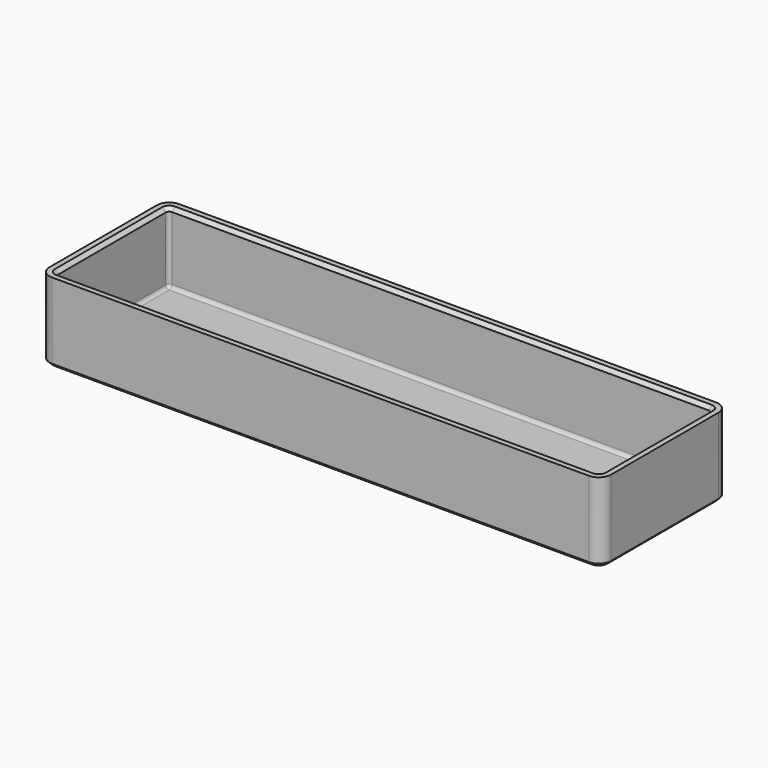
from build123d import *

# Parameters (mm, degrees)
SKETCH_W        = 154
SKETCH_H        = 40
PAD_DEPTH       = 2.5
SKETCH001_W     = 154
SKETCH001_H     = 22.5
PAD001_DEPTH    = 2.5
SKETCH002_W     = 154
SKETCH002_H     = 22.5
PAD002_DEPTH    = 2.5
SKETCH003_W     = 45
SKETCH003_H     = 22.5
PAD003_DEPTH    = 2.5
SKETCH004_W     = 45
SKETCH004_H     = 22.5
PAD004_DEPTH    = 2.5
SKETCH005_W     = 5.5
SKETCH005_H     = 18
POCKET_DEPTH    = 5
SKETCH006_W     = 6
SKETCH006_H     = 5.5
POCKET001_DEPTH = 5
FILLET_R        = 1
CHAMFER_SIZE    = 1
FILLET001_R     = 1
CHAMFER001_SIZE = 1
FILLET002_R     = 1
FILLET003_R     = 3.5
CHAMFER002_SIZE = 1
CHAMFER003_SIZE = 1


with BuildPart() as part:
    # Sketch → Pad (new body)
    with BuildSketch(Plane.XY):
        Rectangle(SKETCH_W, SKETCH_H)
    extrude(amount=PAD_DEPTH)

    # Sketch001 (on Face2 of Pad) → Pad001 (join)
    with BuildSketch(Plane.XZ.offset(20)):
        with Locations((0, 11.25)):
            Rectangle(SKETCH001_W, SKETCH001_H)
    extrude(amount=PAD001_DEPTH)

    # Sketch002 (on Face1 of Pad001) → Pad002 (join)
    with BuildSketch(Plane(origin=(0, 20, 0), x_dir=(-1, 0, 0), z_dir=(0, 1, 0))):
        with Locations((0, 11.25)):
            Rectangle(SKETCH002_W, SKETCH002_H)
    extrude(amount=PAD002_DEPTH)

    # Sketch003 (on Face9 of Pad002) → Pad003 (join)
    with BuildSketch(Plane.YZ.offset(77)):
        with Locations((0, 11.25)):
            Rectangle(SKETCH003_W, SKETCH003_H)
    extrude(amount=PAD003_DEPTH)

    # Sketch004 (on Face4 of Pad003) → Pad004 (join)
    with BuildSketch(Plane(origin=(-77, 0, 0), x_dir=(0, -1, 0), z_dir=(-1, 0, 0))):
        with Locations((0, 11.25)):
            Rectangle(SKETCH004_W, SKETCH004_H)
    extrude(amount=PAD004_DEPTH)

    # Sketch005 (on Face10 of Pad004) → Pocket (cut)
    with BuildSketch(Plane.XY.offset(2.5)):
        with Locations((-74.25, -8.5)):
            Rectangle(SKETCH005_W, SKETCH005_H)
        with Locations((74.25, -8.5)):
            Rectangle(SKETCH005_W, SKETCH005_H)
    extrude(amount=-POCKET_DEPTH, mode=Mode.SUBTRACT)

    # Sketch006 (on Face15 of Pocket) → Pocket001 (cut)
    with BuildSketch(Plane.XY.offset(2.5)):
        with Locations((-68.5, -11.75)):
            Rectangle(SKETCH006_W, SKETCH006_H)
        with Locations((68.5, -11.75)):
            Rectangle(SKETCH006_W, SKETCH006_H)
    extrude(amount=-POCKET001_DEPTH, mode=Mode.SUBTRACT)

    # Fillet
    fillet_edges = [part.edges().sort_by_distance(p)[0] for p in [
        (71.5, -9, 1.25),
        (71.5, -14.5, 1.25),
    ]]
    fillet(fillet_edges, radius=FILLET_R)

    # Chamfer
    chamfer_edges = [part.edges().sort_by_distance(p)[0] for p in [
        (68, -9, 2.5),
        (68, -14.5, 2.5),
    ]]
    chamfer(chamfer_edges, length=CHAMFER_SIZE)

    # Fillet001
    fillet001_edges = [part.edges().sort_by_distance(p)[0] for p in [
        (-71.5, -14.5, 1.25),
        (-71.5, -9, 1.25),
    ]]
    fillet(fillet001_edges, radius=FILLET001_R)

    # Chamfer001
    chamfer001_edges = [part.edges().sort_by_distance(p)[0] for p in [
        (-68, -14.5, 2.5),
        (-68, -9, 2.5),
    ]]
    chamfer(chamfer001_edges, length=CHAMFER001_SIZE)

    # Fillet002
    fillet002_edges = [part.edges().sort_by_distance(p)[0] for p in [
        (77, 20, 12.5),
        (77, 10.25, 2.5),
        (0, 20, 2.5),
        (77, -18.75, 2.5),
        (77, -20, 12.5),
        (0, -20, 2.5),
        (-77, 20, 12.5),
        (-77, 10.25, 2.5),
        (-77, -18.75, 2.5),
        (-77, -20, 12.5),
    ]]
    fillet(fillet002_edges, radius=FILLET002_R)

    # Fillet003
    fillet003_edges = [part.edges().sort_by_distance(p)[0] for p in [
        (-79.5, 22.5, 11.25),
        (-79.5, -22.5, 11.25),
        (79.5, -22.5, 11.25),
        (79.5, 22.5, 11.25),
    ]]
    fillet(fillet003_edges, radius=FILLET003_R)

    # Chamfer002
    chamfer002_edges = [part.edges().sort_by_distance(p)[0] for p in [
        (0, 22.5, 0),
    ]]
    chamfer(chamfer002_edges, length=CHAMFER002_SIZE)

    # Chamfer003
    chamfer003_edges = [part.edges().sort_by_distance(p)[0] for p in [
        (0, 20, 22.5),
    ]]
    chamfer(chamfer003_edges, length=CHAMFER003_SIZE)


solid = part.part
